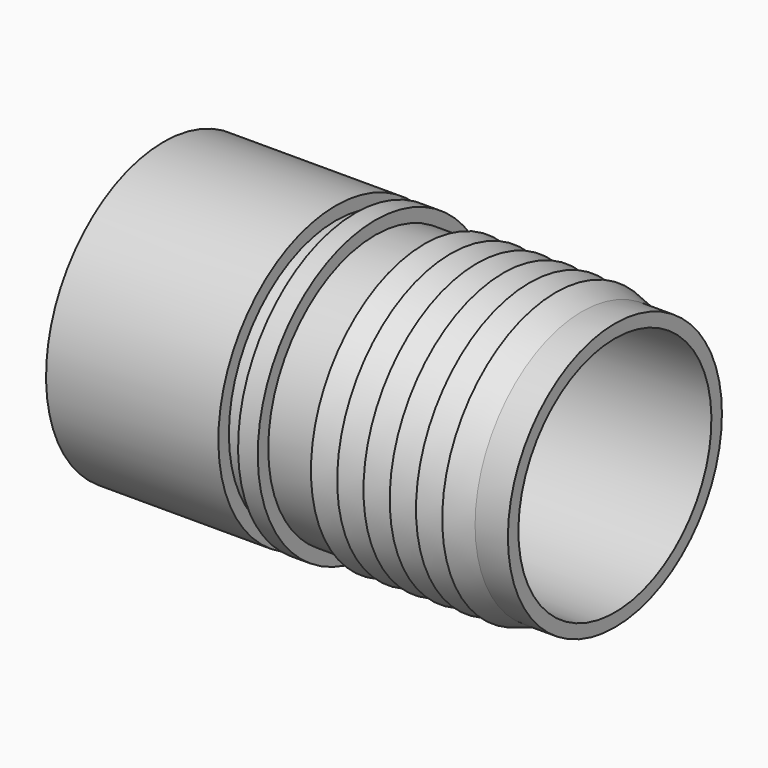
from build123d import *

# Parameters (mm, degrees)
F2_R     = 6
F3_DEPTH = 100


with BuildPart() as f1:
    # F0 (on Front) → F1 (revolve)
    with BuildSketch(Plane.XZ):
        Polygon((0, 44.75), (0, 36.75), (137.5, 36.75), (137.5, 40.75), (127.5, 40.75), (119.5, 43.25), (119.5, 40.75), (111.5, 43.25), (111.5, 40.75), (103.5, 43.25), (103.5, 40.75), (95.5, 43.25), (95.5, 40.75), (87.5, 43.25), (87.5, 40.75), (79.5, 43.25), (79.5, 40.75), (64.5, 40.75), (64.5, 44.75), (58.5, 44.75), (58.5, 40.75), (52.5, 40.75), (52.5, 44.75), align=None)
    revolve(axis=Axis((21.235611, 0, 0), (1, 0, 0)))

    # F2 (on Top) → F3 (cut)
    with BuildSketch(Plane.XY):
        with Locations((25, 0)):
            Circle(F2_R)
    extrude(amount=-F3_DEPTH, mode=Mode.SUBTRACT)


solid = f1.part
